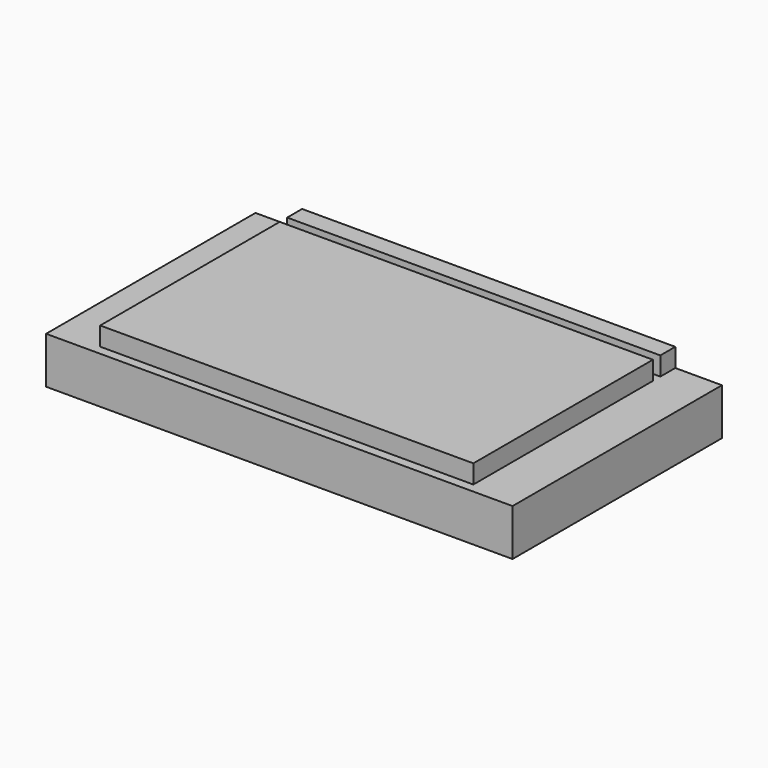
from build123d import *

# Parameters (mm, degrees)
F0_W     = 160
F0_H     = 4
F1_DEPTH = 20
F0_H_2   = 8
F0_H_3   = 96.2171967506
F2_DEPTH = 28


with BuildPart() as f1:
    # F0 (on Top) → F1 (new body)
    with BuildSketch(Plane.XY):
        Polygon((-91.1477909633, 57.2839721679), (-111.1477909633, 57.2839721679), (-111.1477909633, -54.9332245826), (-91.1477909633, -54.9332245826), (-91.1477909633, -50.9332245826), (-91.1477909633, 45.2839721679), (-91.1477909633, 49.2839721679), align=None)
        Polygon((88.8522090367, 57.2839721679), (68.8522090367, 57.2839721679), (68.8522090367, 49.2839721679), (68.8522090367, 45.2839721679), (68.8522090367, -50.9332245826), (68.8522090367, -54.9332245826), (88.8522090367, -54.9332245826), align=None)
        with Locations((-11.1477909633, 47.2839721679)):
            Rectangle(F0_W, F0_H)
        with Locations((-11.1477909633, -52.9332245826)):
            Rectangle(F0_W, F0_H)
    extrude(amount=F1_DEPTH)

    # F0 (on Top) → F2 (join)
    with BuildSketch(Plane.XY):
        with Locations((-11.1477909633, 53.2839721679)):
            Rectangle(F0_W, F0_H_2)
        with Locations((-11.1477909633, -2.8246262074)):
            Rectangle(F0_W, F0_H_3)
    extrude(amount=F2_DEPTH)


solid = f1.part
